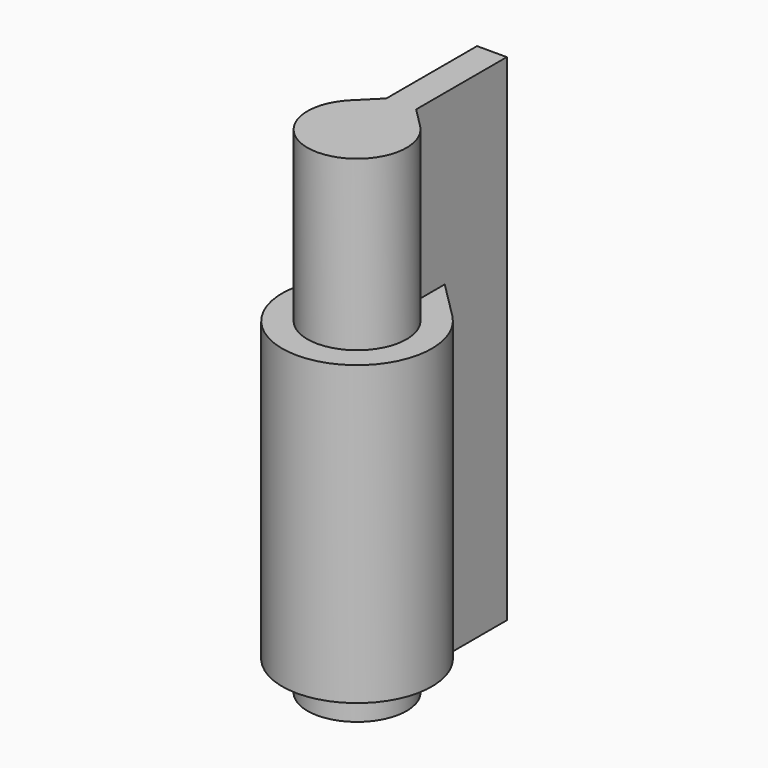
from build123d import *

# Parameters (mm, degrees)
EXTRUDE004_DEPTH = 30
PAD008_DEPTH     = 50


with BuildPart() as bearingslot001:
    # Sketch025 → Extrude004 (new body)
    with BuildSketch(Plane.XY):
        with BuildLine():
            ThreePointArc((-5.33868, 5.338632), (0, -7.55), (5.33868, 5.338632))
            Line((1.5, 9.177312), (5.33868, 5.338632))
            Line((1.5, 17), (1.5, 9.177312))
            Line((-1.5, 17), (1.5, 17))
            Line((-1.5, 9.177312), (-1.5, 17))
            Line((-5.33868, 5.338632), (-1.5, 9.177312))
        make_face()
    extrude(amount=EXTRUDE004_DEPTH)


with BuildPart() as bearingslot001_1:
    # Extrude004 placement: moved
    add(bearingslot001.part.moved(Location((0, 0, 3))))


with BuildPart() as obj1:
    # Sketch024 → Pad008 (new body)
    with BuildSketch(Plane.XY):
        with BuildLine():
            ThreePointArc((-3.535534, 3.535534), (0, -5), (3.535534, 3.535534))
            Line((1.5, 5.571068), (3.535534, 3.535534))
            Line((1.5, 17), (1.5, 5.571068))
            Line((-1.5, 17), (1.5, 17))
            Line((-1.5, 5.571068), (-1.5, 17))
            Line((-3.535534, 3.535534), (-1.5, 5.571068))
        make_face()
    extrude(amount=PAD008_DEPTH)

    # Fusion002: union BearingSlot001
    add(bearingslot001_1.part)


solid = obj1.part
